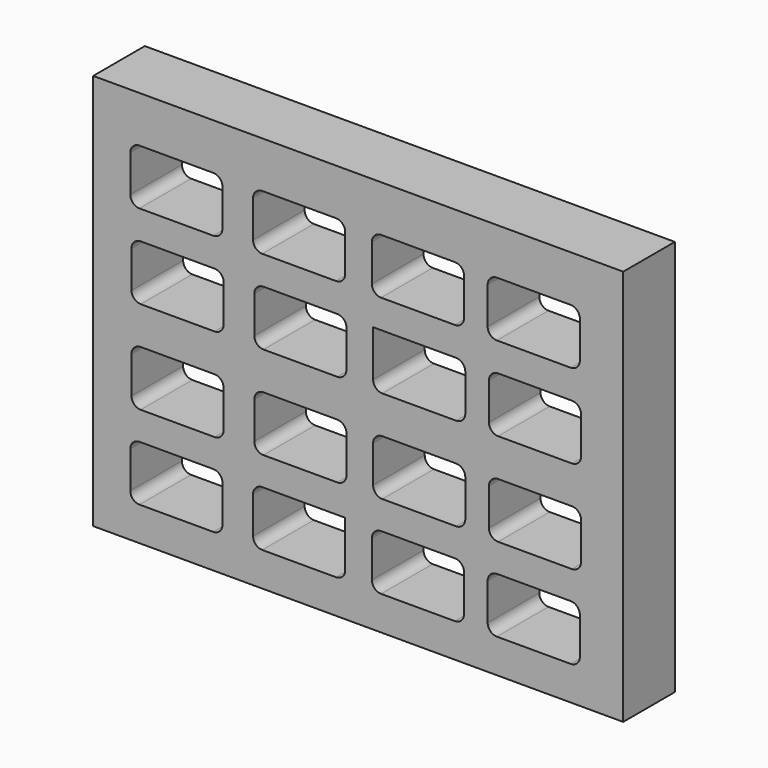
from build123d import *

# Parameters (mm, degrees)
F0_W     = 11.5
F0_H     = 8.6
F2_DEPTH = 1.4
F1_W     = 2
F1_H     = 1.2
F3_DEPTH = 1.4
F4_R     = 0.2
F5_R     = 0.2
F6_R     = 0.2


with BuildPart() as f2:
    # F0 (on Front) → F2 (new body)
    with BuildSketch(Plane.XZ):
        with Locations((-5.75, 4.3)):
            Rectangle(F0_W, F0_H)
    extrude(amount=F2_DEPTH)

    # F1 (on Front) → F3 (cut)
    with BuildSketch(Plane.XZ):
        with Locations((-9.694906, 6.994985)):
            Rectangle(F1_W, F1_H)
        with Locations((-7.031034, 6.994985)):
            Rectangle(F1_W, F1_H)
        with Locations((-4.452752, 6.994985)):
            Rectangle(F1_W, F1_H)
        with Locations((-1.940339, 6.994985)):
            Rectangle(F1_W, F1_H)
        with Locations((-9.668441, 5.175)):
            Rectangle(F1_W, F1_H)
        with Locations((-7.004568, 5.175)):
            Rectangle(F1_W, F1_H)
        with Locations((-4.426287, 5.175)):
            Rectangle(F1_W, F1_H)
        with Locations((-1.913873, 5.175)):
            Rectangle(F1_W, F1_H)
        with Locations((-9.668441, 3.157565)):
            Rectangle(F1_W, F1_H)
        with Locations((-4.426287, 3.157565)):
            Rectangle(F1_W, F1_H)
        with Locations((-7.004568, 3.157565)):
            Rectangle(F1_W, F1_H)
        with Locations((-1.940339, 1.33758)):
            Rectangle(F1_W, F1_H)
        with Locations((-1.913873, 3.157565)):
            Rectangle(F1_W, F1_H)
        with Locations((-4.452752, 1.33758)):
            Rectangle(F1_W, F1_H)
        with Locations((-7.031034, 1.33758)):
            Rectangle(F1_W, F1_H)
        with Locations((-9.694906, 1.33758)):
            Rectangle(F1_W, F1_H)
    extrude(amount=F3_DEPTH, mode=Mode.SUBTRACT)

    # F4
    f4_edges = [f2.edges().sort_by_distance(p)[0] for p in [
        (-10.668441, -0.7, 3.757565),
        (-10.668441, -0.7, 5.775),
        (-10.694906, -0.7, 7.594985),
        (-8.031034, -0.7, 1.93758),
        (-10.694906, -0.7, 1.93758),
        (-8.004568, -0.7, 3.757565),
        (-8.004568, -0.7, 5.775),
        (-8.031034, -0.7, 7.594985),
        (-5.452752, -0.7, 7.594985),
        (-5.426287, -0.7, 3.757565),
        (-5.452752, -0.7, 1.93758),
        (-2.913873, -0.7, 3.757565),
        (-2.940339, -0.7, 1.93758),
        (-2.913873, -0.7, 5.775),
        (-2.940339, -0.7, 7.594985),
    ]]
    fillet(f4_edges, radius=F4_R)

    # F5
    f5_edges = [f2.edges().sort_by_distance(p)[0] for p in [
        (-8.694906, -0.7, 0.73758),
        (-8.668441, -0.7, 2.557565),
        (-8.668441, -0.7, 4.575),
        (-8.694906, -0.7, 6.394985),
        (-6.031034, -0.7, 6.394985),
        (-6.004568, -0.7, 4.575),
        (-6.004568, -0.7, 2.557565),
        (-6.031034, -0.7, 0.73758),
        (-3.452752, -0.7, 0.73758),
        (-3.426287, -0.7, 2.557565),
        (-3.426287, -0.7, 4.575),
        (-3.452752, -0.7, 6.394985),
        (-0.940339, -0.7, 6.394985),
        (-0.913873, -0.7, 4.575),
        (-0.913873, -0.7, 2.557565),
        (-0.940339, -0.7, 0.73758),
        (-2.940339, -0.7, 0.73758),
        (-2.913873, -0.7, 2.557565),
        (-2.913873, -0.7, 4.575),
        (-2.940339, -0.7, 6.394985),
        (-5.452752, -0.7, 6.394985),
        (-5.426287, -0.7, 4.575),
        (-5.426287, -0.7, 2.557565),
        (-5.452752, -0.7, 0.73758),
        (-8.031034, -0.7, 0.73758),
        (-8.004568, -0.7, 2.557565),
        (-8.004568, -0.7, 4.575),
        (-8.031034, -0.7, 6.394985),
        (-10.694906, -0.7, 6.394985),
        (-10.668441, -0.7, 4.575),
        (-10.668441, -0.7, 2.557565),
        (-10.694906, -0.7, 0.73758),
    ]]
    fillet(f5_edges, radius=F5_R)

    # F6
    f6_edges = [f2.edges().sort_by_distance(p)[0] for p in [
        (-8.694906, -0.7, 7.594985),
        (-8.668441, -0.7, 5.775),
        (-8.668441, -0.7, 3.757565),
        (-8.694906, -0.7, 1.93758),
        (-6.004568, -0.7, 3.757565),
        (-6.004568, -0.7, 5.775),
        (-6.031034, -0.7, 7.594985),
        (-3.452752, -0.7, 7.594985),
        (-3.426287, -0.7, 5.775),
        (-3.426287, -0.7, 3.757565),
        (-3.452752, -0.7, 1.93758),
        (-0.913873, -0.7, 3.757565),
        (-0.940339, -0.7, 1.93758),
        (-0.913873, -0.7, 5.775),
        (-0.940339, -0.7, 7.594985),
    ]]
    fillet(f6_edges, radius=F6_R)


solid = f2.part
